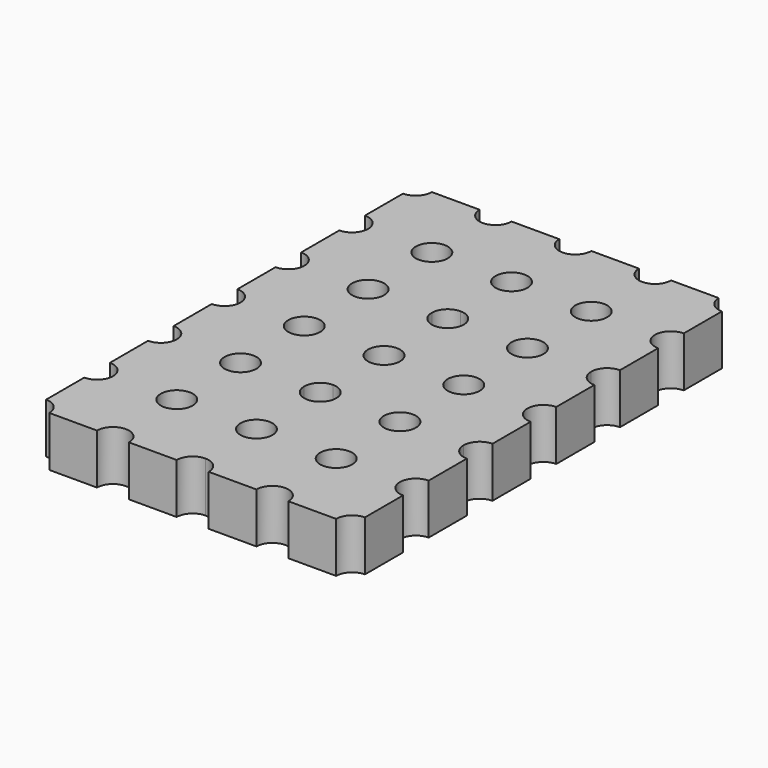
from build123d import *

# Parameters (mm, degrees)
SKETCH_W             = 5.08
SKETCH_H             = 5.08
PAD_DEPTH            = 1.6
SKETCH001_R          = 0.51
POCKET_DEPTH         = 0.001
POCKET_DEPTH_BACK    = 1.601
POCKET001_DEPTH      = 1.601
POCKET001_DEPTH_BACK = 0.001
POCKET002_DEPTH      = 0.001
POCKET002_DEPTH_BACK = 1.601
ARRAY_X_COUNT        = 2
ARRAY_X_PITCH        = 5.08
ARRAY_Y_COUNT        = 3
ARRAY_Y_PITCH        = 5.08


with BuildPart() as part:
    # Sketch → Pad (new body)
    with BuildSketch(Plane.XY):
        Rectangle(SKETCH_W, SKETCH_H)
    extrude(amount=PAD_DEPTH)

    # Sketch001 → Pocket (cut, two sides)
    with BuildSketch(Plane.XY) as pocket_sk:
        Circle(SKETCH001_R)
    extrude(amount=-POCKET_DEPTH, mode=Mode.SUBTRACT)
    extrude(pocket_sk.sketch, amount=POCKET_DEPTH_BACK, mode=Mode.SUBTRACT)

    # Sketch002 → Pocket001 (cut, two sides)
    with BuildSketch(Plane.XY) as pocket001_sk:
        with BuildLine():
            ThreePointArc((-2.54, 2.03), (-2.179376, 2.179376), (-2.03, 2.54))
            Line((-2.54, 2.54), (-2.03, 2.54))
            Line((-2.54, 2.03), (-2.54, 2.54))
        make_face()
        with BuildLine():
            ThreePointArc((2.03, 2.54), (2.179376, 2.179376), (2.54, 2.03))
            Line((2.54, 2.54), (2.54, 2.03))
            Line((2.03, 2.54), (2.54, 2.54))
        make_face()
        with BuildLine():
            ThreePointArc((2.54, -2.03), (2.179376, -2.179376), (2.03, -2.54))
            Line((2.54, -2.54), (2.03, -2.54))
            Line((2.54, -2.03), (2.54, -2.54))
        make_face()
        with BuildLine():
            ThreePointArc((-2.03, -2.54), (-2.179376, -2.179376), (-2.54, -2.03))
            Line((-2.54, -2.54), (-2.54, -2.03))
            Line((-2.03, -2.54), (-2.54, -2.54))
        make_face()
    extrude(amount=POCKET001_DEPTH, mode=Mode.SUBTRACT)
    extrude(pocket001_sk.sketch, amount=-POCKET001_DEPTH_BACK, mode=Mode.SUBTRACT)

    # Sketch003 → Pocket002 (cut, two sides)
    with BuildSketch(Plane.XY) as pocket002_sk:
        with BuildLine():
            ThreePointArc((-0.51, 2.54), (0, 2.03), (0.51, 2.54))
            Line((0, 2.54), (0.51, 2.54))
            Line((-0.51, 2.54), (0, 2.54))
        make_face()
        with BuildLine():
            ThreePointArc((2.54, 0.51), (2.03, 0), (2.54, -0.51))
            Line((2.54, 0), (2.54, -0.51))
            Line((2.54, 0.51), (2.54, 0))
        make_face()
        with BuildLine():
            ThreePointArc((0.51, -2.54), (0, -2.03), (-0.51, -2.54))
            Line((0, -2.54), (-0.51, -2.54))
            Line((0.51, -2.54), (0, -2.54))
        make_face()
        with BuildLine():
            ThreePointArc((-2.54, -0.51), (-2.03, 0), (-2.54, 0.51))
            Line((-2.54, 0), (-2.54, 0.51))
            Line((-2.54, -0.51), (-2.54, 0))
        make_face()
    extrude(amount=-POCKET002_DEPTH, mode=Mode.SUBTRACT)
    extrude(pocket002_sk.sketch, amount=POCKET002_DEPTH_BACK, mode=Mode.SUBTRACT)

    # Array X: part ×2


with BuildPart() as part_1:
    add(part.part)
    with Locations(*[(i * ARRAY_X_PITCH, 0, 0) for i in range(1, ARRAY_X_COUNT)]):
        add(part.part)

    # Array Y: part ×3


with BuildPart() as part_2:
    add(part_1.part)
    with Locations(*[(0, i * ARRAY_Y_PITCH, 0) for i in range(1, ARRAY_Y_COUNT)]):
        add(part_1.part)


solid = part_2.part
